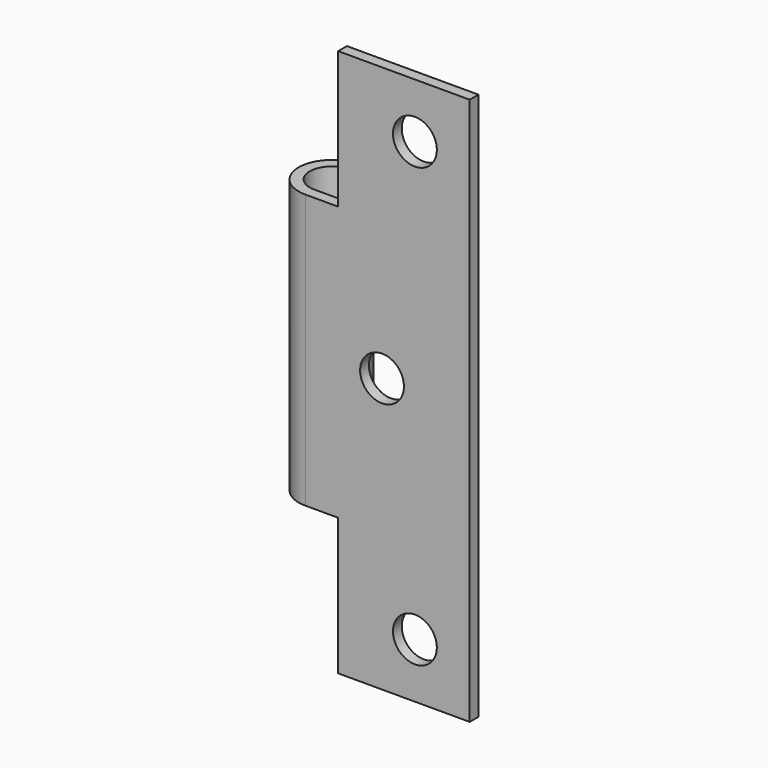
from build123d import *

# Parameters (mm, degrees)
F1_DEPTH = 50
F3_D     = 4
F3_DEPTH = 10
F2_W     = 8
F2_H     = 12.5
F4_DEPTH = 25


with BuildPart() as f1:
    # F0 (on Top) → F1 (new body)
    with BuildSketch(Plane.XY):
        with BuildLine():
            Line((15, 1), (0, 1))
            ThreePointArc((0, 1), (-1.414214, 4.414214), (2, 3))
            Line((2, 3), (2, 2))
            Line((2, 2), (3, 2))
            Line((3, 2), (3, 3))
            ThreePointArc((3, 3), (-2.12132, 5.12132), (0, 0))
            Line((0, 0), (15, 0))
            Line((15, 0), (15, 1))
        make_face()
    extrude(amount=F1_DEPTH)

    # F3
    with Locations(Plane.XZ):
        with Locations((10, 45), (7, 25), (10, 5)):
            Hole(F3_D / 2, depth=F3_DEPTH)

    # F2 (on Front) → F4 (cut)
    with BuildSketch(Plane.XZ):
        with Locations((-1, 43.75)):
            Rectangle(F2_W, F2_H)
        with Locations((-1, 6.25)):
            Rectangle(F2_W, F2_H)
    extrude(amount=-F4_DEPTH, mode=Mode.SUBTRACT)


solid = f1.part
